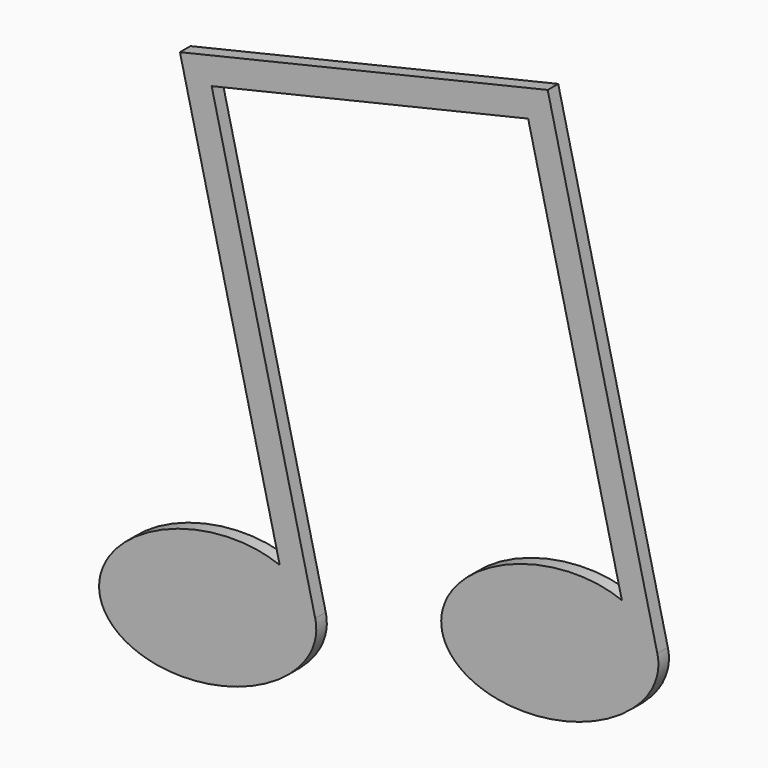
from build123d import *

# Parameters (mm, degrees)
F1_DEPTH = 3.175


with BuildPart() as f1:
    # F0 (on Front) → F1 (new body)
    with BuildSketch(Plane.XZ):
        with BuildLine():
            Line((-6.6943748936, 115.8354653233), (17.3855687052, 14.7093589669))
            add(Edge.make_bspline(
                [(17.3855687052, 14.7093589669), (-8.890883484, 25.1162044882), (-23.7447389019, 3.2549096373), (-38.5985943197, -18.6063852136), (-3.8627571444, -16.5630550574), (30.873080031, -14.5197249013), (25.9446088261, 6.1778776988)],
                knots=[3.846140072, 3.846140072, 3.846140072, 5.705686035, 5.705686035, 7.5652319979, 7.5652319979, 9.4247779608, 9.4247779608, 9.4247779608], degree=2, weights=[1, 0.5980159495, 1, 0.5980159495, 1, 0.5980159495, 1]))
            Line((25.9446088261, 6.1778776988), (0.9585494278, 111.1093070346))
            Line((0.9585494278, 111.1093070346), (77.3265558952, 129.0359325798))
            Line((77.3265558952, 129.0359325798), (99.9355687052, 34.0871456502))
            add(Edge.make_bspline(
                [(99.9355687052, 34.0871456502), (73.659116516, 44.4939911714), (58.8052610981, 22.6326963206), (43.9514056803, 0.7714014697), (78.6872428556, 2.8147316259), (113.423080031, 4.858061782), (108.4946088261, 25.5556643821)],
                knots=[3.846140072, 3.846140072, 3.846140072, 5.705686035, 5.705686035, 7.5652319979, 7.5652319979, 9.4247779608, 9.4247779608, 9.4247779608], degree=2, weights=[1, 0.5980159495, 1, 0.5980159495, 1, 0.5980159495, 1]))
            Line((108.4946088261, 25.5556643821), (82.037618639, 136.6644131446))
            Line((82.037618639, 136.6644131446), (-6.6943748936, 115.8354653233))
        make_face()
    extrude(amount=F1_DEPTH)


solid = f1.part
